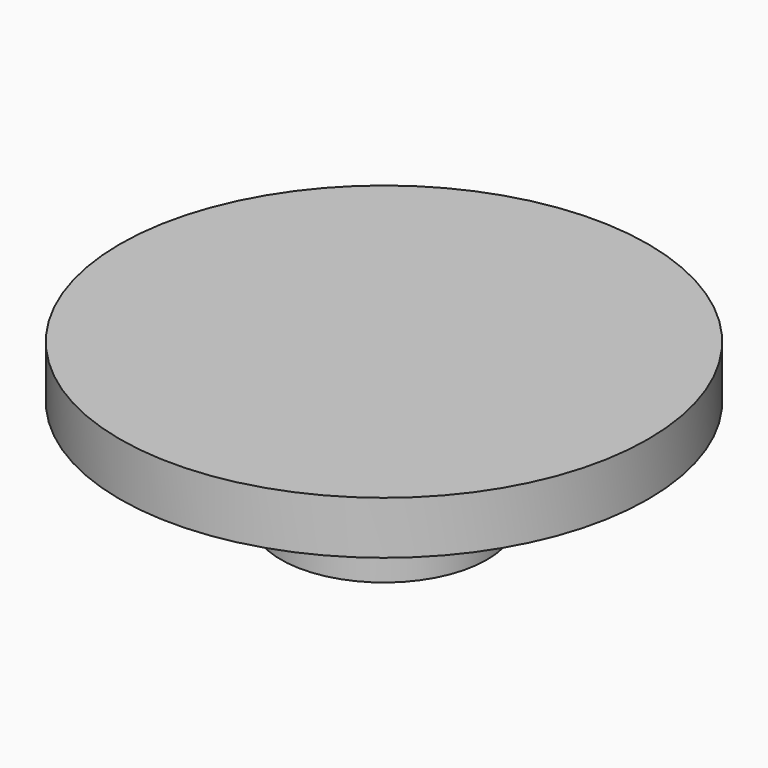
from build123d import *

# Parameters (mm, degrees)
F0_R     = 10
F2_DEPTH = 2
F1_R     = 3.9
F3_DEPTH = 4


with BuildPart() as f2:
    # F0 (on Top) → F2 (new body)
    with BuildSketch(Plane.XY):
        Circle(F0_R)
    extrude(amount=F2_DEPTH)

    # F1 (on face) → F3 (join)
    with BuildSketch(Plane.XY):
        Circle(F1_R)
    extrude(amount=-F3_DEPTH)


solid = f2.part
